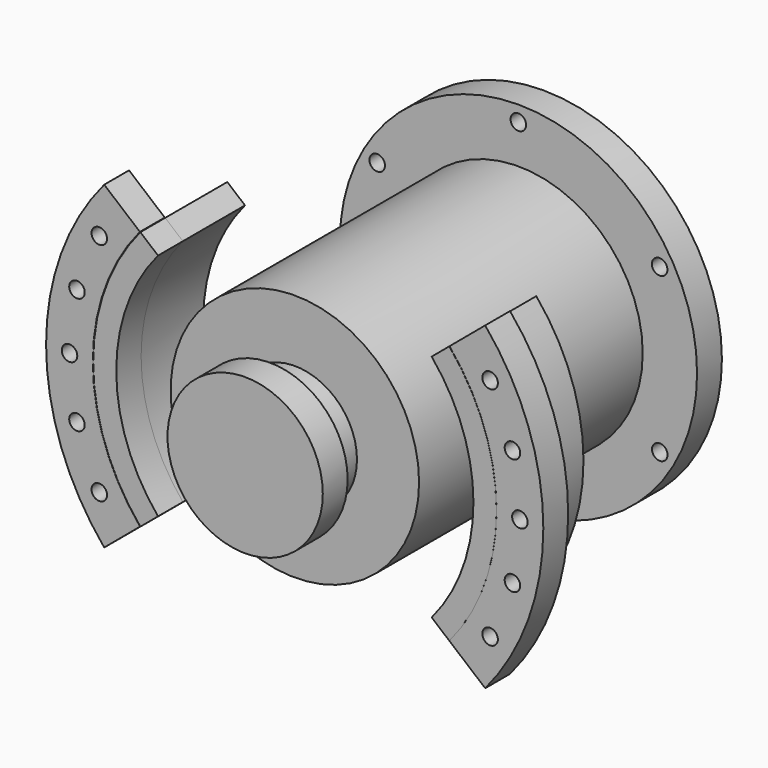
from build123d import *

# Parameters (mm, degrees)
F0_R      = 5
F1_DEPTH  = 20
F3_R      = 115
F3_R_2    = 5
F3_R_3    = 95
F4_DEPTH  = 20
F5_R      = 80
F6_DEPTH  = 180
F7_R      = 50
F7_R_2    = 40
F8_DEPTH  = 40
F9_DEPTH  = 20
F11_DEPTH = 20
F12_DEPTH = 50


with BuildPart() as f1:
    # F0 (on Front) → F1 (new body)
    with BuildSketch(Plane.XZ):
        with BuildLine():
            Line((122.567110899, 102.8460175499), (99.5829498528, 83.5600164931))
            ThreePointArc((99.5829498528, 83.5600164931), (129.9086831953, 0.0241370063), (99.481402654, -83.4748082759))
            Line((99.481402654, -83.4748082759), (122.567110899, -102.8460175499))
            ThreePointArc((122.567110899, -102.8460175499), (160, 0), (122.567110899, 102.8460175499))
        make_face()
        with Locations((125.7332297188, -72.5416527074)):
            Circle(F0_R, mode=Mode.SUBTRACT)
        with Locations((140.1133790573, -37.4645593656)):
            Circle(F0_R, mode=Mode.SUBTRACT)
        with Locations((144.9087072187, 0.1031692286)):
            Circle(F0_R, mode=Mode.SUBTRACT)
        with Locations((140.1133790573, 37.6708978229)):
            Circle(F0_R, mode=Mode.SUBTRACT)
        with Locations((125.7332297188, 72.7479911647)):
            Circle(F0_R, mode=Mode.SUBTRACT)
    extrude(amount=-F1_DEPTH)


with BuildPart() as f1b:
    # F0 (on Front) → F1, piece 2 (new body)
    with BuildSketch(Plane.XZ):
        with BuildLine():
            ThreePointArc((-99.6639882165, -83.4748082759), (-130.0912687578, 0.0241370063), (-99.7655354154, 83.5600164931))
            Line((-99.7655354154, 83.5600164931), (-122.7496964616, 102.8460175499))
            ThreePointArc((-122.7496964616, 102.8460175499), (-160.1825855625, 0), (-122.7496964616, -102.8460175499))
            Line((-122.7496964616, -102.8460175499), (-99.6639882165, -83.4748082759))
        make_face()
        with Locations((-125.9158152813, -72.5416527074)):
            Circle(F0_R, mode=Mode.SUBTRACT)
        with Locations((-140.2959646198, -37.4645593656)):
            Circle(F0_R, mode=Mode.SUBTRACT)
        with Locations((-145.0912927813, 0.1031692286)):
            Circle(F0_R, mode=Mode.SUBTRACT)
        with Locations((-140.2959646198, 37.6708978229)):
            Circle(F0_R, mode=Mode.SUBTRACT)
        with Locations((-125.9158152813, 72.7479911647)):
            Circle(F0_R, mode=Mode.SUBTRACT)
    extrude(amount=-F1_DEPTH)


with BuildPart() as f4:
    # F3 (on offset) → F4 (new body)
    with BuildSketch(Plane(origin=(0, 200, 0), x_dir=(-1, 0, 0), z_dir=(0, 1, 0))):
        Circle(F3_R)
        with Locations((-0.0912927813, -104.9999603125)):
            Circle(F3_R_2, mode=Mode.SUBTRACT)
        with Locations((-90.9782794176, -52.4209182885)):
            Circle(F3_R_2, mode=Mode.SUBTRACT)
        with Locations((90.8869866364, -52.579042024)):
            Circle(F3_R_2, mode=Mode.SUBTRACT)
        with Locations((-90.8869866364, 52.579042024)):
            Circle(F3_R_2, mode=Mode.SUBTRACT)
        Circle(F3_R_3, mode=Mode.SUBTRACT)
        with Locations((90.9782794176, 52.4209182885)):
            Circle(F3_R_2, mode=Mode.SUBTRACT)
        with Locations((0.0912927813, 104.9999603125)):
            Circle(F3_R_2, mode=Mode.SUBTRACT)
        Circle(F3_R_3)
    extrude(amount=-F4_DEPTH)

    # F5 (on face) → F6 (join)
    with BuildSketch(Plane.XZ.offset(-180)):
        Circle(F5_R)
    extrude(amount=F6_DEPTH)

    # F7 (on face) → F8 (join)
    with BuildSketch(Plane.XZ):
        Circle(F7_R)
        Circle(F7_R_2, mode=Mode.SUBTRACT)
        Circle(F7_R_2)
    extrude(amount=F8_DEPTH)

    # F7 (on face) → F9 (cut)
    with BuildSketch(Plane.XZ):
        Circle(F7_R)
        Circle(F7_R_2, mode=Mode.SUBTRACT)
    extrude(amount=F9_DEPTH, mode=Mode.SUBTRACT)


with BuildPart() as f11:
    # F10 (on face) → F11 (new body)
    with BuildSketch(Plane(origin=(0, 20, 0), x_dir=(-1, 0, 0), z_dir=(0, 1, 0))):
        with BuildLine():
            Line((88.0951109587, -73.920575114), (99.481402654, -83.4748082759))
            ThreePointArc((99.481402654, -83.4748082759), (129.8637481775, 0), (99.481402654, 83.4748082759))
            Line((99.481402654, 83.4748082759), (88.0951109587, 73.920575114))
            ThreePointArc((88.0951109587, 73.920575114), (115, 0), (88.0951109587, -73.920575114))
        make_face()
    extrude(amount=-F11_DEPTH)


with BuildPart() as f11b:
    # F10 (on face) → F11, piece 2 (new body)
    with BuildSketch(Plane(origin=(0, 20, 0), x_dir=(-1, 0, 0), z_dir=(0, 1, 0))):
        with BuildLine():
            Line((-88.0951109587, 73.920575114), (-99.481402654, 83.4748082759))
            ThreePointArc((-99.481402654, 83.4748082759), (-129.8637481775, 0), (-99.481402654, -83.4748082759))
            Line((-99.481402654, -83.4748082759), (-88.0951109587, -73.920575114))
            ThreePointArc((-88.0951109587, -73.920575114), (-115, 0), (-88.0951109587, 73.920575114))
        make_face()
    extrude(amount=-F11_DEPTH)


with BuildPart() as f12:
    # F10 (on face) → F12 (new body)
    with BuildSketch(Plane(origin=(0, 20, 0), x_dir=(-1, 0, 0), z_dir=(0, 1, 0))):
        with BuildLine():
            Line((88.0951109587, -73.920575114), (99.481402654, -83.4748082759))
            ThreePointArc((99.481402654, -83.4748082759), (129.8637481775, 0), (99.481402654, 83.4748082759))
            Line((99.481402654, 83.4748082759), (88.0951109587, 73.920575114))
            ThreePointArc((88.0951109587, 73.920575114), (115, 0), (88.0951109587, -73.920575114))
        make_face()
    extrude(amount=F12_DEPTH)


with BuildPart() as f12b:
    # F10 (on face) → F12, piece 2 (new body)
    with BuildSketch(Plane(origin=(0, 20, 0), x_dir=(-1, 0, 0), z_dir=(0, 1, 0))):
        with BuildLine():
            Line((-88.0951109587, 73.920575114), (-99.481402654, 83.4748082759))
            ThreePointArc((-99.481402654, 83.4748082759), (-129.8637481775, 0), (-99.481402654, -83.4748082759))
            Line((-99.481402654, -83.4748082759), (-88.0951109587, -73.920575114))
            ThreePointArc((-88.0951109587, -73.920575114), (-115, 0), (-88.0951109587, 73.920575114))
        make_face()
    extrude(amount=F12_DEPTH)


solid = Compound([f1.part, f1b.part, f4.part, f11.part, f11b.part, f12.part, f12b.part])
